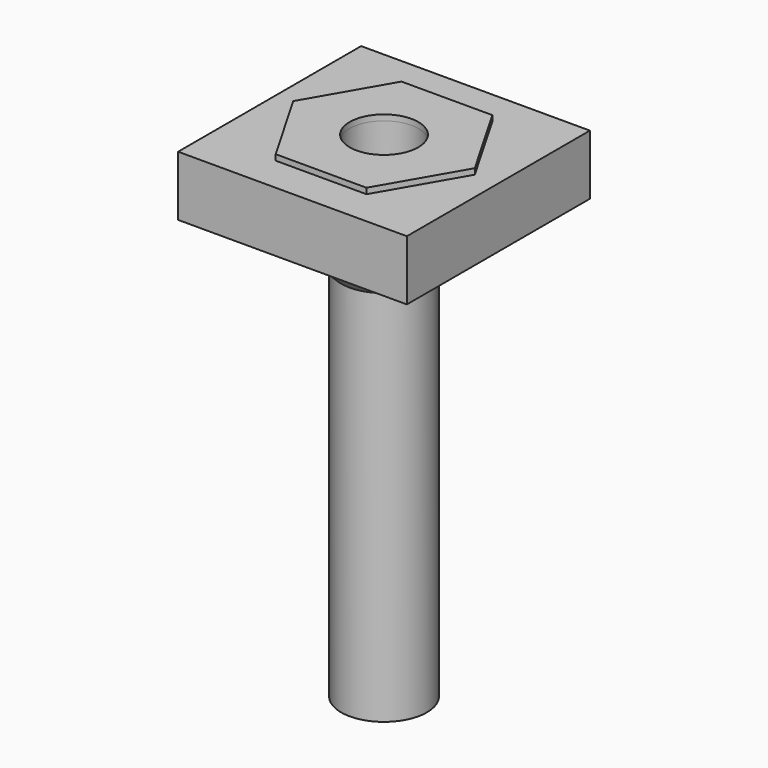
from build123d import *

# Parameters (mm, degrees)
F0_R     = 1.2
F1_DEPTH = 2.3
F2_W     = 8
F2_H     = 8
F2_R     = 1.2
F3_DEPTH = 2.1


with BuildPart() as f1:
    # F0 (on Top) → F1 (new body)
    with BuildSketch(Plane.XY):
        Polygon((3.1754264805, 0), (1.5877132403, 2.75), (-1.5877132403, 2.75), (-3.1754264805, 0), (-1.5877132403, -2.75), (1.5877132403, -2.75), align=None)
        Circle(F0_R, mode=Mode.SUBTRACT)
    extrude(amount=F1_DEPTH)


with BuildPart() as f3:
    # F2 (on Top) → F3 (new body)
    with BuildSketch(Plane.XY):
        Rectangle(F2_W, F2_H)
        Circle(F2_R, mode=Mode.SUBTRACT)
    extrude(amount=F3_DEPTH)


with BuildPart() as f5:
    # F4 (on Front) → F5 (revolve)
    with BuildSketch(Plane.XZ):
        Polygon((3.3, 0), (0, 0), (0, -15), (1.5, -15), (1.5, -1.8), align=None)
    revolve(axis=Axis((0, 0, -7.5), (0, 0, -1)))


solid = Compound([f1.part, f3.part, f5.part])
